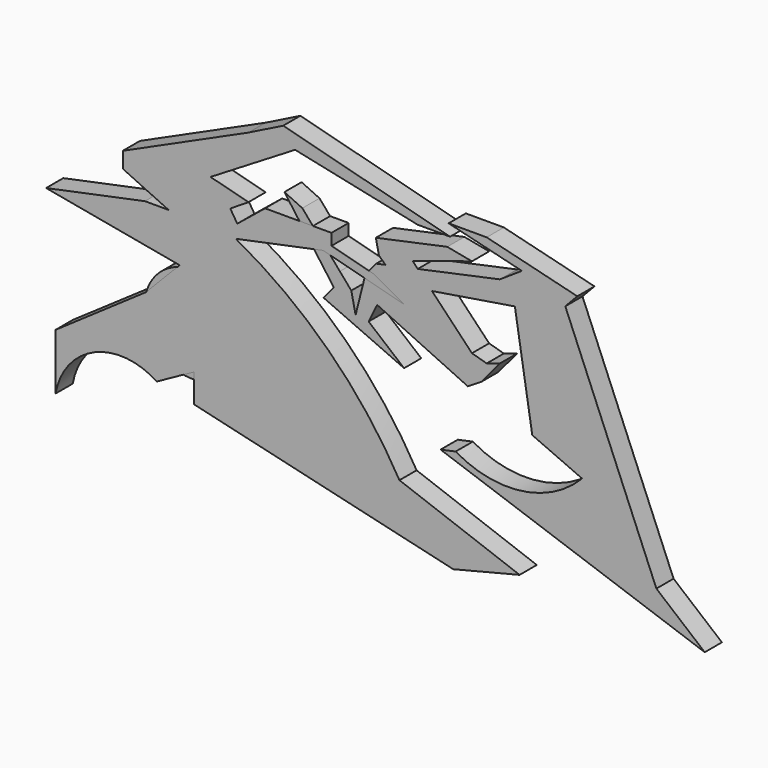
from build123d import *

# Parameters (mm, degrees)
F2_DEPTH = 25.4
F0_R     = 56.874736522
F4_DEPTH = 25.4


with BuildPart() as f2:
    # F1 (on Front) → F2 (new body)
    with BuildSketch(Plane.XZ):
        Polygon((97.3623842001, 157.826974988), (131.1217065965, 111.4492850022), (162.9634663396, 96.60414105), (118.5843721032, 147.9329406156), align=None)
        with BuildLine():
            Line((255.160440026, 129.0485934543), (271.9647816435, 111.5006950761))
            Line((271.9647816435, 111.5006950761), (370.050162077, 127.35016644))
            Line((370.050162077, 127.35016644), (390.6284868717, 0))
            Line((390.6284868717, 0), (449.5572447777, -26.0517243296))
            ThreePointArc((449.5572447777, -26.0517243296), (378.3384551006, -62.2624967169), (300.0009953976, -46.559680179))
            Line((300.0009953976, -46.559680179), (282.1246683598, -50.371542573))
            Line((282.1246683598, -50.371542573), (594.7094174282, -159.7953251611))
            Line((594.7094174282, -159.7953251611), (537.4827384949, -112.1064573526))
            Line((537.4827384949, -112.1064573526), (429.7089413172, 146.9157032843))
            Line((429.7089413172, 146.9157032843), (443.9377291613, 161.9496632187))
            Line((443.9377291613, 161.9496632187), (336.6748690605, 188.4707063437))
            Line((336.6748690605, 188.4707063437), (291.6783094406, 188.4707063437))
            Line((291.6783094406, 188.4707063437), (378.2855272293, 167.0568287373))
            Line((378.2855272293, 167.0568287373), (352.2146344185, 149.7439652161))
            Line((352.2146344185, 149.7439652161), (255.160440026, 129.0485934543))
        make_face()
        Polygon((209.1958191275, 128.1530192824), (216.8752775893, 120.884848708), (255.160440026, 129.0485934543), (249.0305602551, 135.4497075081), (319.2703127861, 157.826974988), (290.0555431843, 163.4213030338), (205.5191844702, 145.3951746225), align=None)
        Polygon((220.5155867332, 103.1870958647), (207.1602131464, 75.9989020851), (314.2975866795, 26.0497238487), (330.4589688778, 35.9951779246), (352.2146344185, 62.1019937098), (336.6748690605, 57.1292676032), (319.2703127861, 62.1019937098), (271.9647816435, 111.5006950761), (233.3784030187, 105.2655792989), align=None)
        Polygon((162.9634663396, 96.60414105), (131.1217065965, 111.4492850022), (155.8793856038, 77.4378214935), (143.6888128519, 62.809124589), (238.9593260341, 20.3644687398), (197.0053315163, 55.3261078894), (207.1602131464, 75.9989020851), (188.531082378, 84.6841044795), (181.5934830965, 57.1292676032), (176.5192896128, 80.9254944324), align=None)
        Polygon((193.1745260954, 103.1269878149), (188.531082378, 84.6841044795), (207.1602131464, 75.9989020851), (220.5155867332, 103.1870958647), (233.3784030187, 105.2655792989), (216.8752775893, 120.884848708), (206.0489376394, 118.5762918085), align=None)
        Polygon((216.8752775893, 120.884848708), (233.3784030187, 105.2655792989), (271.9647816435, 111.5006950761), (255.160440026, 129.0485934543), align=None)
    extrude(amount=F2_DEPTH)


with BuildPart() as f2b:
    # F0 (on Front) → F2, piece 2 (new body)
    with BuildSketch(Plane.XZ):
        with Locations((-11.5391798317, -15.4729206115)):
            Circle(F0_R)
    extrude(amount=F2_DEPTH)


with BuildPart() as f4:
    # F3 (on Front) → F4 (new body)
    with BuildSketch(Plane.XZ):
        with BuildLine():
            Line((-184.6286505461, 70.2921450138), (-26.5498682857, 41.2954464555))
            Line((-26.5498682857, 41.2954464555), (-66.7710974813, 0))
            Line((-66.7710974813, 0), (-173.4041124582, -73.7559720874))
            Line((-173.4041124582, -73.7559720874), (-173.4041124582, -140.1677727699))
            ThreePointArc((-173.4041124582, -140.1677727699), (-127.4246598374, -82.1314180062), (-53.6758117378, -88.7220129371))
            Line((-53.6758117378, -88.7220129371), (-9.7130751237, -64.4022002816))
            Line((-9.7130751237, -64.4022002816), (-9.7130751237, -98.0757921934))
            Line((-9.7130751237, -98.0757921934), (297.0907092094, -170.0998544693))
            Line((297.0907092094, -170.0998544693), (375.662446022, -150.4569202662))
            Line((375.662446022, -150.4569202662), (233.4850430489, -98.0757921934))
            ThreePointArc((233.4850430489, -98.0757921934), (149.8050921338, 9.6380229284), (39.914448045, 90.4380631201))
            Line((39.914448045, 90.4380631201), (143.115914138, 111.903967857))
            Line((143.115914138, 111.903967857), (238.1619513035, 87.1289372444))
            Line((238.1619513035, 87.1289372444), (203.0790512679, 106.824474055))
            Line((203.0790512679, 106.824474055), (153.0425846577, 119.8671534657))
            Line((153.0425846577, 119.8671534657), (153.0425846577, 133.4190372256))
            Line((153.0425846577, 133.4190372256), (74.4708925486, 133.4190372256))
            Line((74.4708925486, 133.4190372256), (41.6113905826, 106.6954664946))
            Line((41.6113905826, 106.6954664946), (33.3142876625, 119.8671534657))
            Line((33.3142876625, 119.8671534657), (54.8279620707, 133.4190372256))
            Line((54.8279620707, 133.4190372256), (9.9298534915, 145.1223343611))
            Line((9.9298534915, 145.1223343611), (110.0152358413, 205.9218734503))
            Line((110.0152358413, 205.9218734503), (254.9987435341, 175.0544160604))
            Line((254.9987435341, 175.0544160604), (293.3492064476, 175.0544160604))
            Line((293.3492064476, 175.0544160604), (95.984570682, 226.5001684427))
            Line((95.984570682, 226.5001684427), (54.8279620707, 205.9218734503))
            Line((54.8279620707, 205.9218734503), (-93.8970446587, 138.5746896267))
            Line((-93.8970446587, 138.5746896267), (-93.8970446587, 119.8671534657))
            Line((-93.8970446587, 119.8671534657), (-39.6451503038, 94.6119576693))
            Line((-39.6451503038, 94.6119576693), (-67.7064731717, 94.6119576693))
            Line((-67.7064731717, 94.6119576693), (-184.6286505461, 70.2921450138))
        make_face()
    extrude(amount=F4_DEPTH)


solid = Compound([f2.part, f2b.part, f4.part])
